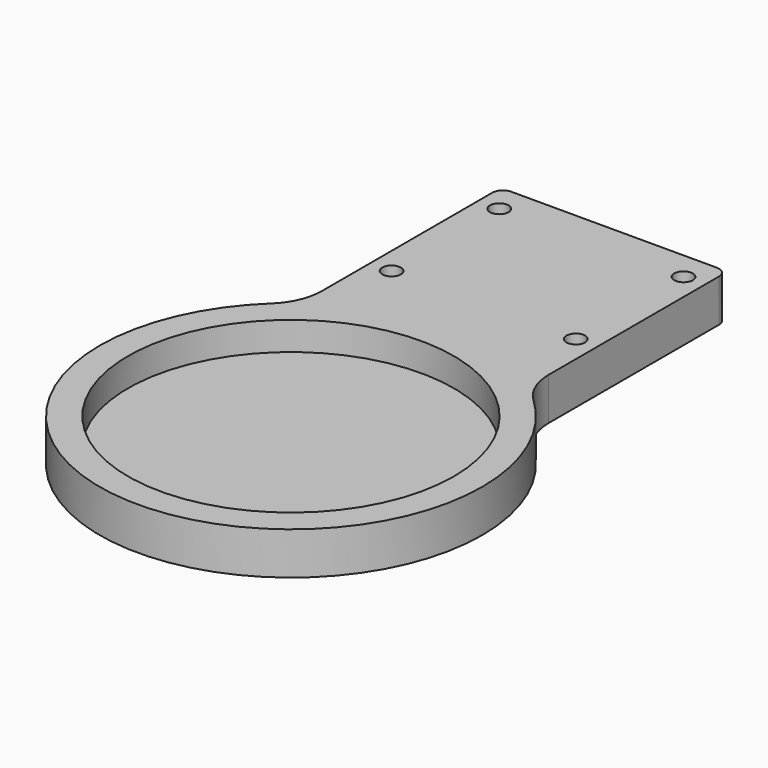
from build123d import *

# Parameters (mm, degrees)
F0_R     = 36.5125
F1_DEPTH = 9.525
F2_R     = 36.5125
F3_DEPTH = 3.175
F4_R     = 2.0828
F5_DEPTH = 9.526
F6_R     = 3.6322
F6_R_2   = 2.0828
F7_DEPTH = 4.1656
F8_R     = 2.38125
F9_R     = 12.7


with BuildPart() as f1:
    # F0 (on Top) → F1 (new body)
    with BuildSketch(Plane.XY):
        with BuildLine():
            Line((-25.4, 90.5002), (-25.4, 34.525844))
            ThreePointArc((-25.4, 34.525844), (0, -42.8625), (25.4, 34.525844))
            Line((25.4, 34.525844), (25.4, 90.5002))
            Line((25.4, 90.5002), (-25.4, 90.5002))
        make_face()
        Circle(F0_R, mode=Mode.SUBTRACT)
    extrude(amount=F1_DEPTH)

    # F2 (on Top) → F3 (join)
    with BuildSketch(Plane.XY):
        Circle(F2_R)
    extrude(amount=F3_DEPTH)

    # F4 (on face) → F5 (cut, through all)
    with BuildSketch(Plane.XY.offset(9.525)):
        with Locations((-20.6375, 84.1502)):
            Circle(F4_R)
        with Locations((20.6375, 84.1502)):
            Circle(F4_R)
        with Locations((-20.6375, 53.975)):
            Circle(F4_R)
        with Locations((20.6375, 53.975)):
            Circle(F4_R)
    extrude(amount=-F5_DEPTH, mode=Mode.SUBTRACT)

    # F6 (on face) → F7 (cut)
    with BuildSketch(Plane.XY):
        with Locations((20.6375, 84.1502)):
            Circle(F6_R)
        with Locations((20.6375, 84.1502)):
            Circle(F6_R_2, mode=Mode.SUBTRACT)
        with Locations((-20.6375, 84.1502)):
            Circle(F6_R)
        with Locations((-20.6375, 84.1502)):
            Circle(F6_R_2, mode=Mode.SUBTRACT)
        with Locations((-20.6375, 53.975)):
            Circle(F6_R)
        with Locations((-20.6375, 53.975)):
            Circle(F6_R_2, mode=Mode.SUBTRACT)
        with Locations((20.6375, 53.975)):
            Circle(F6_R)
        with Locations((20.6375, 53.975)):
            Circle(F6_R_2, mode=Mode.SUBTRACT)
    extrude(amount=F7_DEPTH, mode=Mode.SUBTRACT)

    # F8
    f8_edges = [f1.edges().sort_by_distance(p)[0] for p in [
        (25.4, 90.5002, 4.7625),
        (-25.4, 90.5002, 4.7625),
    ]]
    fillet(f8_edges, radius=F8_R)

    # F9
    f9_edges = [f1.edges().sort_by_distance(p)[0] for p in [
        (25.4, 34.525844, 4.7625),
        (-25.4, 34.525844, 4.7625),
    ]]
    fillet(f9_edges, radius=F9_R)


solid = f1.part
